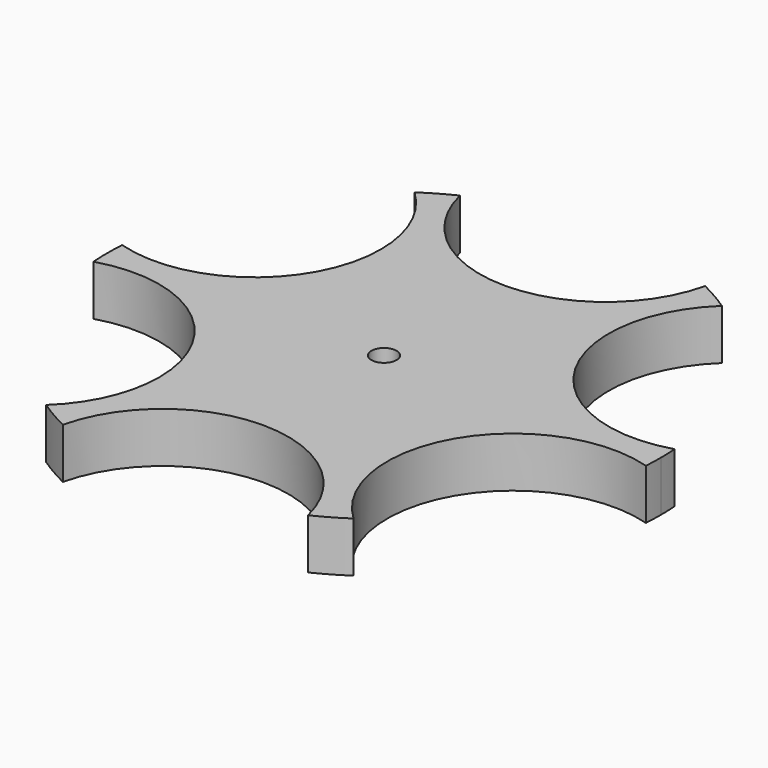
from build123d import *

# Parameters (mm, degrees)
F2_DEPTH = 25.4
F4_D     = 12.7
F4_DEPTH = 127


with BuildPart() as f2:
    # F0 (on Top) → F2 (new body)
    with BuildSketch(Plane.XY):
        with BuildLine():
            ThreePointArc((139.404567, -9.080571), (139.626122, -4.542688), (139.7, 0))
            ThreePointArc((139.7, 0), (139.626122, 4.542688), (139.404567, 9.080571))
            ThreePointArc((139.404567, 9.080571), (65.991136, 38.1), (77.566289, 116.187611))
            ThreePointArc((77.566289, 116.187611), (69.85, 120.983749), (61.838278, 125.268182))
            ThreePointArc((61.838278, 125.268182), (0, 76.2), (-61.838278, 125.268182))
            ThreePointArc((-61.838278, 125.268182), (-69.85, 120.983749), (-77.566289, 116.187611))
            ThreePointArc((-77.566289, 116.187611), (-62.720301, 95.101151), (-57.483749, 69.85))
            ThreePointArc((-57.483749, 69.85), (-83.151699, 18.850138), (-139.404567, 9.080571))
            ThreePointArc((-139.404567, 9.080571), (-139.7, 0), (-139.404567, -9.080571))
            ThreePointArc((-139.404567, -9.080571), (-83.151699, -18.850138), (-57.483749, -69.85))
            ThreePointArc((-57.483749, -69.85), (-62.720301, -95.101151), (-77.566289, -116.187611))
            ThreePointArc((-77.566289, -116.187611), (-69.85, -120.983749), (-61.838278, -125.268182))
            ThreePointArc((-61.838278, -125.268182), (0, -76.2), (61.838278, -125.268182))
            ThreePointArc((61.838278, -125.268182), (69.85, -120.983749), (77.566289, -116.187611))
            ThreePointArc((77.566289, -116.187611), (65.991136, -38.1), (139.404567, -9.080571))
        make_face()
    extrude(amount=F2_DEPTH)

    # F4
    with Locations(Plane.XY.offset(25.4)):
        with Locations((0, 0)):
            Hole(F4_D / 2, depth=F4_DEPTH)


solid = f2.part
